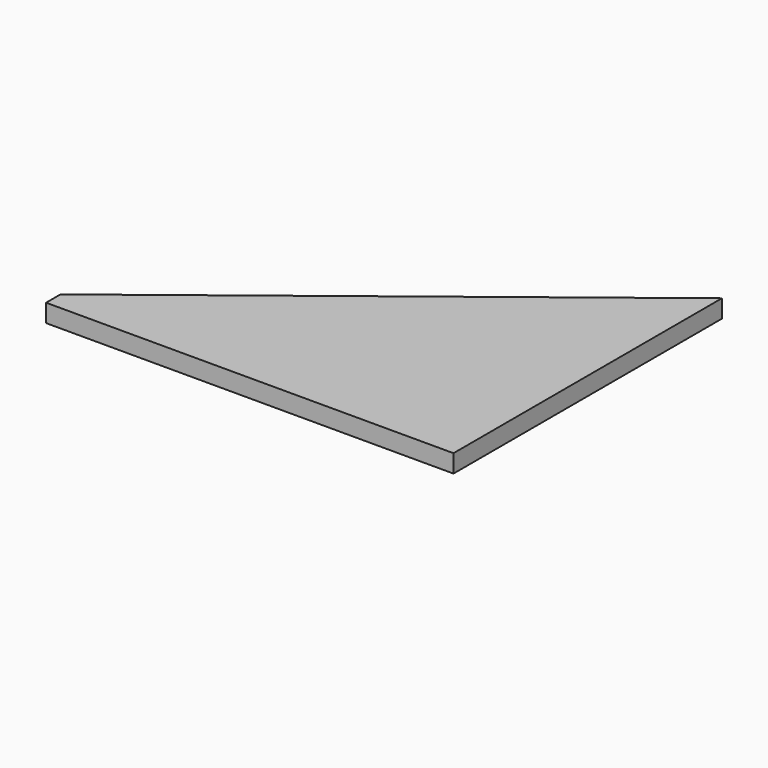
from build123d import *

# Parameters (mm, degrees)
PAD_DEPTH = 3


with BuildPart() as part:
    # Sketch → Pad (new body)
    with BuildSketch(Plane.XY):
        Polygon((0, 0), (-68, 0), (-68, 3), (0, 56), align=None)
    extrude(amount=PAD_DEPTH)


solid = part.part
